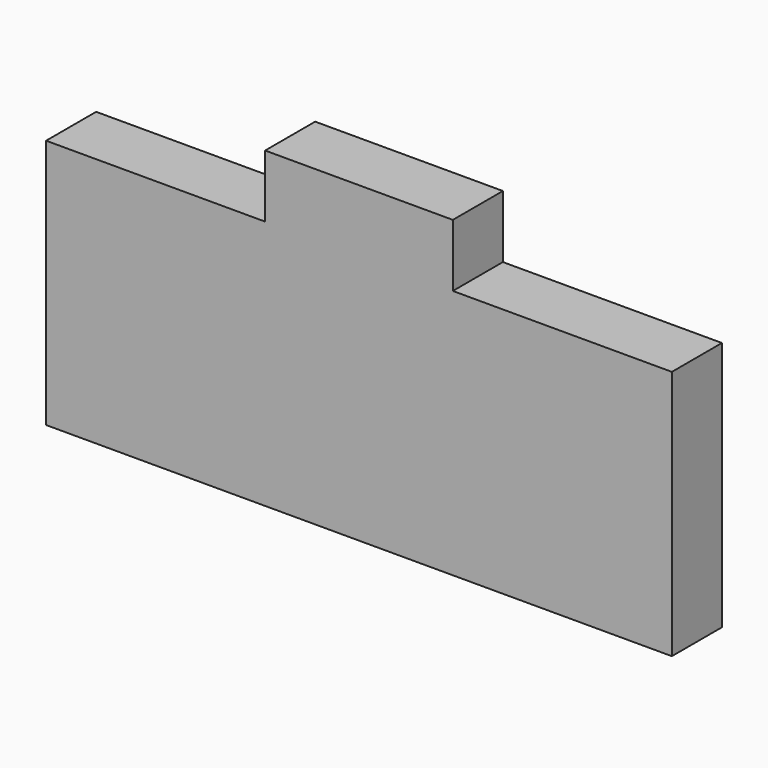
from build123d import *

# Parameters (mm, degrees)
F0_W     = 100
F0_H     = 40
F1_DEPTH = 10
F2_W     = 30
F2_H     = 10
F3_DEPTH = 10


with BuildPart() as f1:
    # F0 (on Front) → F1 (new body)
    with BuildSketch(Plane.XZ):
        Rectangle(F0_W, F0_H)
    extrude(amount=F1_DEPTH)

    # F2 (on face) → F3 (join)
    with BuildSketch(Plane.XY.offset(20)):
        with Locations((0, -5)):
            Rectangle(F2_W, F2_H)
    extrude(amount=F3_DEPTH)


solid = f1.part
